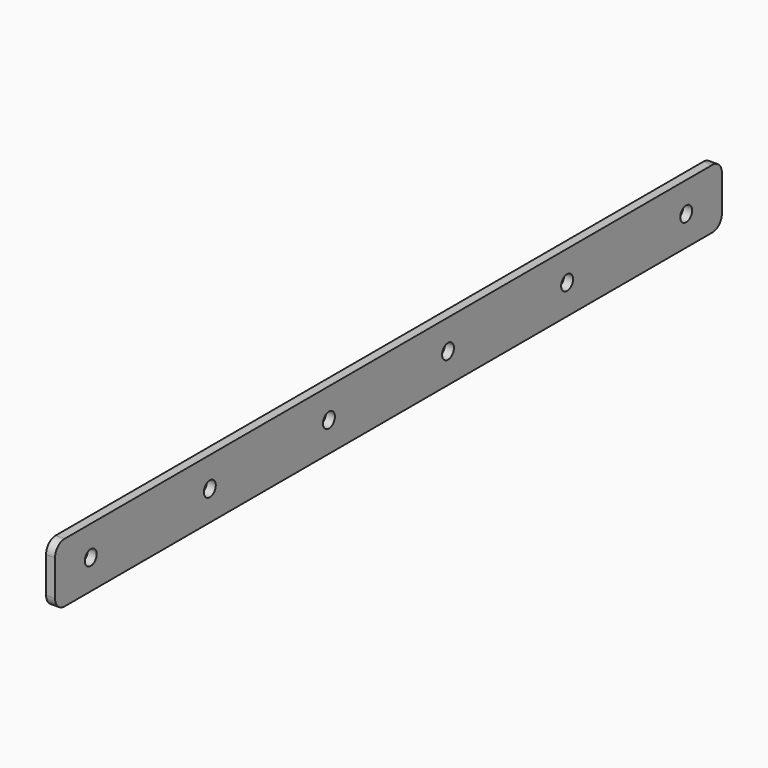
from build123d import *

# Parameters (mm, degrees)
CYLINDER055_R       = 2.5
CYLINDER055_DEPTH   = 100
ARRAY001032_Y_COUNT = 6
ARRAY001032_Y_PITCH = 50
BOX030_W            = 3
BOX030_H            = 280
BOX030_DEPTH        = 20
FILLET002_R         = 4


with BuildPart() as horizontal_hole_array006:
    # Cylinder055 → Cylinder055 (new body)
    with BuildSketch(Plane(origin=(-137, -85, -101), x_dir=(0, 0, -1), z_dir=(1, 0, 0))):
        Circle(CYLINDER055_R)
    extrude(amount=CYLINDER055_DEPTH)

    # Array001032 Y: horizontal hole array006 ×6


with BuildPart() as horizontal_hole_array006_1:
    add(horizontal_hole_array006.part)
    with Locations(*[(0, i * ARRAY001032_Y_PITCH, 0) for i in range(1, ARRAY001032_Y_COUNT)]):
        add(horizontal_hole_array006.part)


with BuildPart() as stand_attachment_bottom_plate_cut:
    # Box030 → Box030 (new body)
    with BuildSketch(Plane(origin=(-103, -100, -111), x_dir=(1, 0, 0), z_dir=(0, 0, 1))):
        with Locations((1.5, 140)):
            Rectangle(BOX030_W, BOX030_H)
    extrude(amount=BOX030_DEPTH)

    # Fillet002
    fillet002_edges = [stand_attachment_bottom_plate_cut.edges().sort_by_distance(p)[0] for p in [
        (-101.5, -100, -111),
        (-101.5, -100, -91),
        (-101.5, 180, -111),
        (-101.5, 180, -91),
    ]]
    fillet(fillet002_edges, radius=FILLET002_R)

    # Cut019005: cut horizontal hole array006
    add(horizontal_hole_array006_1.part, mode=Mode.SUBTRACT)


solid = stand_attachment_bottom_plate_cut.part
